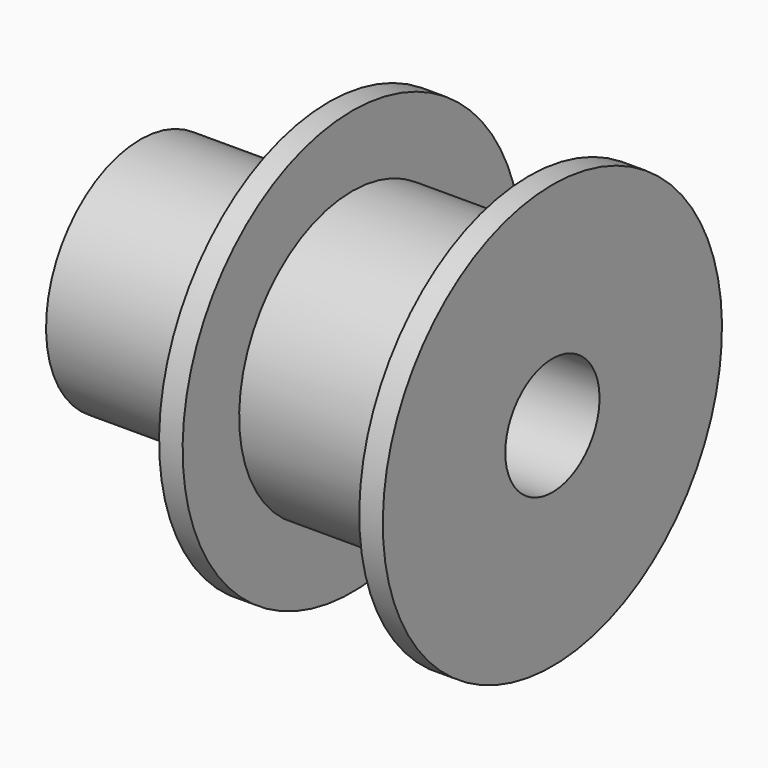
from build123d import *

# Parameters (mm, degrees)
F2_R     = 2.5
F3_DEPTH = 17.501


with BuildPart() as f1:
    # F0 (on Front) → F1 (revolve)
    with BuildSketch(Plane.XZ):
        Polygon((0, 5), (0, 0), (17.5, 0), (17.5, 9), (16.5, 9), (16.5, 6), (9, 6), (9, 9), (8, 9), (8, 5), align=None)
    revolve(axis=Axis((-7.792865, 0, 0), (-1, 0, 0)))

    # F2 (on face) → F3 (cut, through all)
    with BuildSketch(Plane(origin=(0, 0, 0), x_dir=(0, -1, 0), z_dir=(-1, 0, 0))):
        Circle(F2_R)
    extrude(amount=-F3_DEPTH, mode=Mode.SUBTRACT)


solid = f1.part
